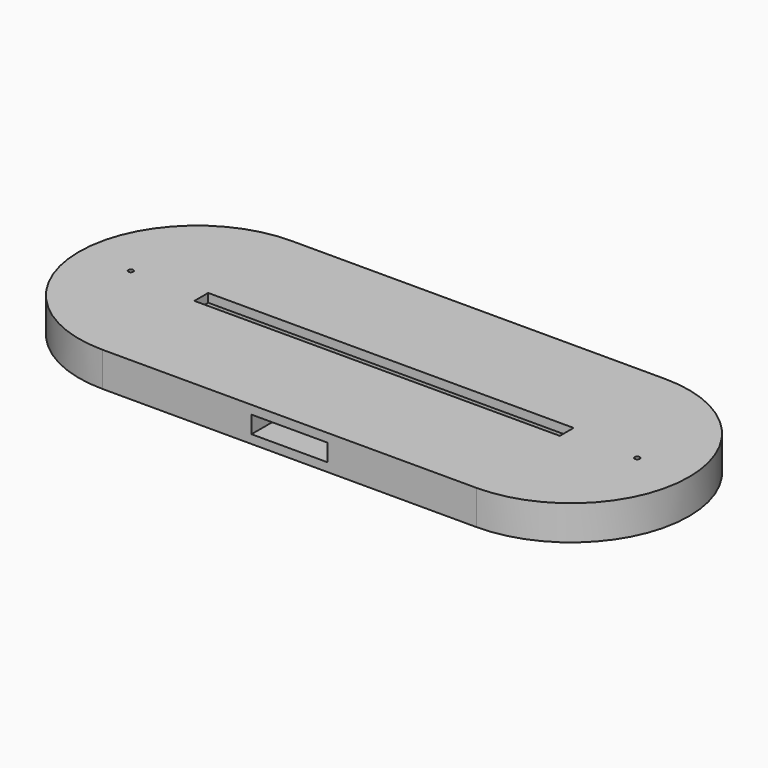
from build123d import *

# Parameters (mm, degrees)
PAD_DEPTH          = 9
POCKET_DEPTH       = 6
SKETCH002_W        = 26.5
SKETCH002_H        = 35
POCKET001_DEPTH    = 6
SKETCH003_W        = 127
SKETCH003_H        = 6
PAD001_DEPTH       = 3
SKETCH004_R        = 0.85
POCKET002_DEPTH    = 467.245989
POLARPATTERN_COUNT = 2


with BuildPart() as part:
    # Sketch → Pad (new body)
    with BuildSketch(Plane.XY):
        with BuildLine():
            ThreePointArc((-65, 41), (-106, 0), (-65, -41))
            Line((-65, -41), (65, -41))
            ThreePointArc((65, -41), (106, 0), (65, 41))
            Line((-65, 41), (65, 41))
        make_face()
    extrude(amount=PAD_DEPTH)

    # Sketch001 (on Face6 of Pad) → Pocket (cut)
    with BuildSketch(Plane.XY.offset(9)):
        with BuildLine():
            ThreePointArc((-62.5, 6), (-68.5, 0), (-62.5, -6))
            Line((-62.5, -6), (62.5, -6))
            ThreePointArc((62.5, -6), (68.5, 0), (62.5, 6))
            Line((-62.5, 6), (62.5, 6))
        make_face()
    extrude(amount=-POCKET_DEPTH, mode=Mode.SUBTRACT)

    # Sketch002 (on Face5 of Pocket) → Pocket001 (cut)
    with BuildSketch(Plane.XY.offset(9)):
        with Locations((0, -23.5)):
            Rectangle(SKETCH002_W, SKETCH002_H)
    extrude(amount=-POCKET001_DEPTH, mode=Mode.SUBTRACT)

    # Sketch003 (on Face5 of Pocket001) → Pad001 (join)
    with BuildSketch(Plane.XY.offset(9)):
        with BuildLine():
            ThreePointArc((-65, 41), (-106, 0), (-65, -41))
            Line((-65, -41), (65, -41))
            ThreePointArc((65, -41), (106, 0), (65, 41))
            Line((-65, 41), (65, 41))
        make_face()
        Rectangle(SKETCH003_W, SKETCH003_H, mode=Mode.SUBTRACT)
    extrude(amount=PAD001_DEPTH)

    # Sketch004 (on Face12 of Pad001) → Pocket002 (cut, through all)
    with BuildSketch(Plane.XY.offset(12)):
        with Locations((-88, 0)):
            Circle(SKETCH004_R)
    pocket002 = extrude(amount=-POCKET002_DEPTH, mode=Mode.SUBTRACT)

    # PolarPattern: Pocket002 ×2 about axis
    polarpattern_axis = Axis((0, 0, 12), (0, 0, 1))
    for i in range(1, POLARPATTERN_COUNT):
        add(pocket002.rotate(polarpattern_axis, i * 360 / POLARPATTERN_COUNT), mode=Mode.SUBTRACT)


solid = part.part
